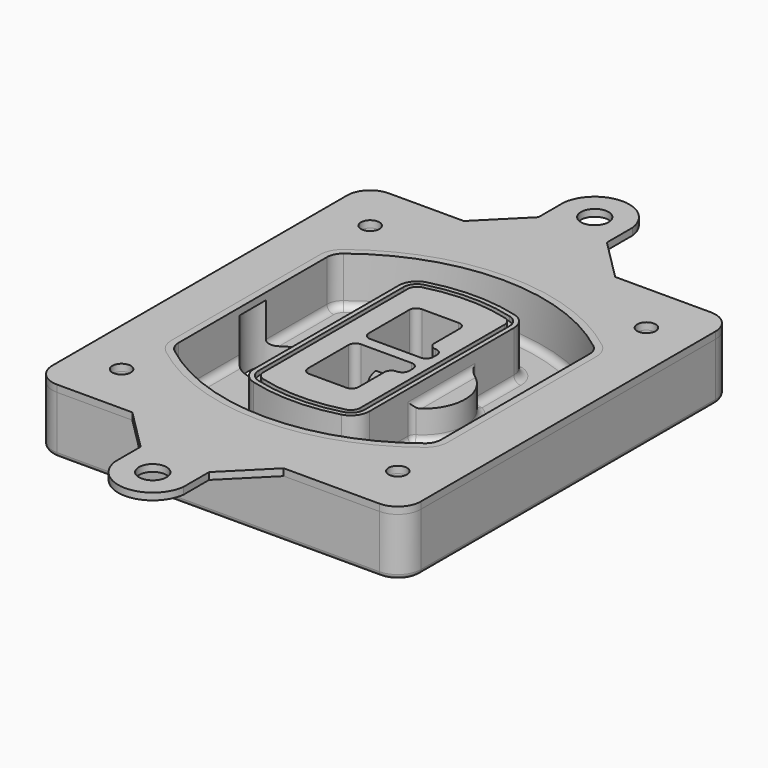
from build123d import *

# Parameters (mm, degrees)
F0_R      = 4
F1_DEPTH  = 25
F2_DEPTH  = 3
F3_DEPTH  = 18
F5_DEPTH  = 21
F6_DEPTH  = 2
F8_DEPTH  = 20
F9_DEPTH  = 16
F10_DEPTH = 25
F7_R      = 6
F7_R_2    = 4
F11_DEPTH = 6
F13_DEPTH = 9
F14_R     = 3
F15_R     = 2
F16_R     = 6
F16_R_2   = 4
F17_DEPTH = 3


with BuildPart() as f1:
    # F0 (on Top) → F1 (new body)
    with BuildSketch(Plane.XY):
        with BuildLine():
            ThreePointArc((-80, -80), (-77.0710678119, -87.0710678119), (-70, -90))
            Line((-70, -90), (70, -90))
            ThreePointArc((70, -90), (77.0710678119, -87.0710678119), (80, -80))
            Line((80, -80), (80, 80))
            ThreePointArc((80, 80), (77.0710678119, 87.0710678119), (70, 90))
            Line((70, 90), (-70, 90))
            ThreePointArc((-70, 90), (-77.0710678119, 87.0710678119), (-80, 80))
            Line((-80, 80), (-80, -80))
        make_face()
        with Locations((-60, -67.5)):
            Circle(F0_R, mode=Mode.SUBTRACT)
        with Locations((60, -67.5)):
            Circle(F0_R, mode=Mode.SUBTRACT)
        with Locations((-60, 67.5)):
            Circle(F0_R, mode=Mode.SUBTRACT)
        with BuildLine():
            ThreePointArc((-64, 40.2934422872), (-62.5820384798, 46.4328484224), (-58.6153846154, 51.3286200352))
            ThreePointArc((-58.6153846154, 51.3286200352), (0, 71.5), (58.6153846154, 51.3286200352))
            ThreePointArc((58.6153846154, 51.3286200352), (62.5820384798, 46.4328484224), (64, 40.2934422872))
            Line((64, 40.2934422872), (64, -40.2934422872))
            ThreePointArc((64, -40.2934422872), (62.5820384798, -46.4328484224), (58.6153846154, -51.3286200352))
            ThreePointArc((58.6153846154, -51.3286200352), (0, -71.5), (-58.6153846154, -51.3286200352))
            ThreePointArc((-58.6153846154, -51.3286200352), (-62.5820384798, -46.4328484224), (-64, -40.2934422872))
            Line((-64, -40.2934422872), (-64, 40.2934422872))
        make_face(mode=Mode.SUBTRACT)
        with Locations((60, 67.5)):
            Circle(F0_R, mode=Mode.SUBTRACT)
        with BuildLine():
            ThreePointArc((58.6153846154, 51.3286200352), (0, 71.5), (-58.6153846154, 51.3286200352))
            ThreePointArc((-58.6153846154, 51.3286200352), (-62.5820384798, 46.4328484224), (-64, 40.2934422872))
            Line((-64, 40.2934422872), (-64, -40.2934422872))
            ThreePointArc((-64, -40.2934422872), (-62.5820384798, -46.4328484224), (-58.6153846154, -51.3286200352))
            ThreePointArc((-58.6153846154, -51.3286200352), (0, -71.5), (58.6153846154, -51.3286200352))
            ThreePointArc((58.6153846154, -51.3286200352), (62.5820384798, -46.4328484224), (64, -40.2934422872))
            Line((64, -40.2934422872), (64, 40.2934422872))
            ThreePointArc((64, 40.2934422872), (62.5820384798, 46.4328484224), (58.6153846154, 51.3286200352))
        make_face()
        with BuildLine():
            Line((-60, -40.2934422872), (-60, 40.2934422872))
            ThreePointArc((-60, 40.2934422872), (-58.9871703427, 44.6787323838), (-56.1538461538, 48.1757121072))
            ThreePointArc((-56.1538461538, 48.1757121072), (0, 67.5), (56.1538461538, 48.1757121072))
            ThreePointArc((56.1538461538, 48.1757121072), (58.9871703427, 44.6787323838), (60, 40.2934422872))
            Line((60, 40.2934422872), (60, -40.2934422872))
            ThreePointArc((60, -40.2934422872), (58.9871703427, -44.6787323838), (56.1538461538, -48.1757121072))
            ThreePointArc((56.1538461538, -48.1757121072), (0, -67.5), (-56.1538461538, -48.1757121072))
            ThreePointArc((-56.1538461538, -48.1757121072), (-58.9871703427, -44.6787323838), (-60, -40.2934422872))
        make_face(mode=Mode.SUBTRACT)
        with BuildLine():
            ThreePointArc((-56.1538461538, 48.1757121072), (-58.9871703427, 44.6787323838), (-60, 40.2934422872))
            Line((-60, 40.2934422872), (-60, -40.2934422872))
            ThreePointArc((-60, -40.2934422872), (-58.9871703427, -44.6787323838), (-56.1538461538, -48.1757121072))
            ThreePointArc((-56.1538461538, -48.1757121072), (0, -67.5), (56.1538461538, -48.1757121072))
            ThreePointArc((56.1538461538, -48.1757121072), (58.9871703427, -44.6787323838), (60, -40.2934422872))
            Line((60, -40.2934422872), (60, 40.2934422872))
            ThreePointArc((60, 40.2934422872), (58.9871703427, 44.6787323838), (56.1538461538, 48.1757121072))
            ThreePointArc((56.1538461538, 48.1757121072), (0, 67.5), (-56.1538461538, 48.1757121072))
        make_face()
        with BuildLine():
            ThreePointArc((54.3076923077, 45.8110311612), (56.2910192399, 43.3631453548), (57, 40.2934422872))
            Line((57, 40.2934422872), (57, -40.2934422872))
            ThreePointArc((57, -40.2934422872), (56.2910192399, -43.3631453548), (54.3076923077, -45.8110311612))
            ThreePointArc((54.3076923077, -45.8110311612), (0, -64.5), (-54.3076923077, -45.8110311612))
            ThreePointArc((-54.3076923077, -45.8110311612), (-56.2910192399, -43.3631453548), (-57, -40.2934422872))
            Line((-57, -40.2934422872), (-57, 40.2934422872))
            ThreePointArc((-57, 40.2934422872), (-56.2910192399, 43.3631453548), (-54.3076923077, 45.8110311612))
            ThreePointArc((-54.3076923077, 45.8110311612), (0, 64.5), (54.3076923077, 45.8110311612))
        make_face(mode=Mode.SUBTRACT)
        with BuildLine():
            Line((57, -40.2934422872), (57, 40.2934422872))
            ThreePointArc((57, 40.2934422872), (56.2910192399, 43.3631453548), (54.3076923077, 45.8110311612))
            ThreePointArc((54.3076923077, 45.8110311612), (0, 64.5), (-54.3076923077, 45.8110311612))
            ThreePointArc((-54.3076923077, 45.8110311612), (-56.2910192399, 43.3631453548), (-57, 40.2934422872))
            Line((-57, 40.2934422872), (-57, -40.2934422872))
            ThreePointArc((-57, -40.2934422872), (-56.2910192399, -43.3631453548), (-54.3076923077, -45.8110311612))
            ThreePointArc((-54.3076923077, -45.8110311612), (0, -64.5), (54.3076923077, -45.8110311612))
            ThreePointArc((54.3076923077, -45.8110311612), (56.2910192399, -43.3631453548), (57, -40.2934422872))
        make_face()
    extrude(amount=-F1_DEPTH)

    # F0 (on Top) → F2 (join)
    with BuildSketch(Plane.XY):
        with BuildLine():
            ThreePointArc((-56.1538461538, 48.1757121072), (-58.9871703427, 44.6787323838), (-60, 40.2934422872))
            Line((-60, 40.2934422872), (-60, -40.2934422872))
            ThreePointArc((-60, -40.2934422872), (-58.9871703427, -44.6787323838), (-56.1538461538, -48.1757121072))
            ThreePointArc((-56.1538461538, -48.1757121072), (0, -67.5), (56.1538461538, -48.1757121072))
            ThreePointArc((56.1538461538, -48.1757121072), (58.9871703427, -44.6787323838), (60, -40.2934422872))
            Line((60, -40.2934422872), (60, 40.2934422872))
            ThreePointArc((60, 40.2934422872), (58.9871703427, 44.6787323838), (56.1538461538, 48.1757121072))
            ThreePointArc((56.1538461538, 48.1757121072), (0, 67.5), (-56.1538461538, 48.1757121072))
        make_face()
        with BuildLine():
            ThreePointArc((54.3076923077, 45.8110311612), (56.2910192399, 43.3631453548), (57, 40.2934422872))
            Line((57, 40.2934422872), (57, -40.2934422872))
            ThreePointArc((57, -40.2934422872), (56.2910192399, -43.3631453548), (54.3076923077, -45.8110311612))
            ThreePointArc((54.3076923077, -45.8110311612), (0, -64.5), (-54.3076923077, -45.8110311612))
            ThreePointArc((-54.3076923077, -45.8110311612), (-56.2910192399, -43.3631453548), (-57, -40.2934422872))
            Line((-57, -40.2934422872), (-57, 40.2934422872))
            ThreePointArc((-57, 40.2934422872), (-56.2910192399, 43.3631453548), (-54.3076923077, 45.8110311612))
            ThreePointArc((-54.3076923077, 45.8110311612), (0, 64.5), (54.3076923077, 45.8110311612))
        make_face(mode=Mode.SUBTRACT)
    extrude(amount=F2_DEPTH)

    # F0 (on Top) → F3 (cut)
    with BuildSketch(Plane.XY):
        with BuildLine():
            Line((57, -40.2934422872), (57, 40.2934422872))
            ThreePointArc((57, 40.2934422872), (56.2910192399, 43.3631453548), (54.3076923077, 45.8110311612))
            ThreePointArc((54.3076923077, 45.8110311612), (0, 64.5), (-54.3076923077, 45.8110311612))
            ThreePointArc((-54.3076923077, 45.8110311612), (-56.2910192399, 43.3631453548), (-57, 40.2934422872))
            Line((-57, 40.2934422872), (-57, -40.2934422872))
            ThreePointArc((-57, -40.2934422872), (-56.2910192399, -43.3631453548), (-54.3076923077, -45.8110311612))
            ThreePointArc((-54.3076923077, -45.8110311612), (0, -64.5), (54.3076923077, -45.8110311612))
            ThreePointArc((54.3076923077, -45.8110311612), (56.2910192399, -43.3631453548), (57, -40.2934422872))
        make_face()
    extrude(amount=-F3_DEPTH, mode=Mode.SUBTRACT)

    # F4 (on face) → F5 (join, through all)
    with BuildSketch(Plane.XY.offset(3)):
        with BuildLine():
            ThreePointArc((-25, -39.2465276821), (-23.3511545998, -44.1109737193), (-19.0842911877, -46.9702398883))
            ThreePointArc((-19.0842911877, -46.9702398883), (0, -49.5), (19.0842911877, -46.9702398883))
            ThreePointArc((19.0842911877, -46.9702398883), (23.3511545998, -44.1109737193), (25, -39.2465276821))
            Line((25, -39.2465276821), (25, 39.2465276821))
            ThreePointArc((25, 39.2465276821), (23.3511545998, 44.1109737193), (19.0842911877, 46.9702398883))
            ThreePointArc((19.0842911877, 46.9702398883), (0, 49.5), (-19.0842911877, 46.9702398883))
            ThreePointArc((-19.0842911877, 46.9702398883), (-23.3511545998, 44.1109737193), (-25, 39.2465276821))
            Line((-25, 39.2465276821), (-25, -39.2465276821))
        make_face()
        with BuildLine():
            ThreePointArc((18.5632183908, 45.0393118368), (21.7633659499, 42.89486221), (23, 39.2465276821))
            Line((23, 39.2465276821), (23, -39.2465276821))
            ThreePointArc((23, -39.2465276821), (21.7633659499, -42.89486221), (18.5632183908, -45.0393118368))
            ThreePointArc((18.5632183908, -45.0393118368), (0, -47.5), (-18.5632183908, -45.0393118368))
            ThreePointArc((-18.5632183908, -45.0393118368), (-21.7633659499, -42.89486221), (-23, -39.2465276821))
            Line((-23, -39.2465276821), (-23, 39.2465276821))
            ThreePointArc((-23, 39.2465276821), (-21.7633659499, 42.89486221), (-18.5632183908, 45.0393118368))
            ThreePointArc((-18.5632183908, 45.0393118368), (0, 47.5), (18.5632183908, 45.0393118368))
        make_face(mode=Mode.SUBTRACT)
        with BuildLine():
            Line((23, -39.2465276821), (23, 39.2465276821))
            ThreePointArc((23, 39.2465276821), (21.7633659499, 42.89486221), (18.5632183908, 45.0393118368))
            ThreePointArc((18.5632183908, 45.0393118368), (0, 47.5), (-18.5632183908, 45.0393118368))
            ThreePointArc((-18.5632183908, 45.0393118368), (-21.7633659499, 42.89486221), (-23, 39.2465276821))
            Line((-23, 39.2465276821), (-23, -39.2465276821))
            ThreePointArc((-23, -39.2465276821), (-21.7633659499, -42.89486221), (-18.5632183908, -45.0393118368))
            ThreePointArc((-18.5632183908, -45.0393118368), (0, -47.5), (18.5632183908, -45.0393118368))
            ThreePointArc((18.5632183908, -45.0393118368), (21.7633659499, -42.89486221), (23, -39.2465276821))
        make_face()
        with BuildLine():
            ThreePointArc((18.0421455939, 43.1083837852), (20.1755772999, 41.6787507007), (21, 39.2465276821))
            Line((21, 39.2465276821), (21, -39.2465276821))
            ThreePointArc((21, -39.2465276821), (20.1755772999, -41.6787507007), (18.0421455939, -43.1083837852))
            ThreePointArc((18.0421455939, -43.1083837852), (0, -45.5), (-18.0421455939, -43.1083837852))
            ThreePointArc((-18.0421455939, -43.1083837852), (-20.1755772999, -41.6787507007), (-21, -39.2465276821))
            Line((-21, -39.2465276821), (-21, 39.2465276821))
            ThreePointArc((-21, 39.2465276821), (-20.1755772999, 41.6787507007), (-18.0421455939, 43.1083837852))
            ThreePointArc((-18.0421455939, 43.1083837852), (0, 45.5), (18.0421455939, 43.1083837852))
        make_face(mode=Mode.SUBTRACT)
        with BuildLine():
            Line((21, -39.2465276821), (21, 39.2465276821))
            ThreePointArc((21, 39.2465276821), (20.1755772999, 41.6787507007), (18.0421455939, 43.1083837852))
            ThreePointArc((18.0421455939, 43.1083837852), (0, 45.5), (-18.0421455939, 43.1083837852))
            ThreePointArc((-18.0421455939, 43.1083837852), (-20.1755772999, 41.6787507007), (-21, 39.2465276821))
            Line((-21, 39.2465276821), (-21, -39.2465276821))
            ThreePointArc((-21, -39.2465276821), (-20.1755772999, -41.6787507007), (-18.0421455939, -43.1083837852))
            ThreePointArc((-18.0421455939, -43.1083837852), (0, -45.5), (18.0421455939, -43.1083837852))
            ThreePointArc((18.0421455939, -43.1083837852), (20.1755772999, -41.6787507007), (21, -39.2465276821))
        make_face()
        with BuildLine():
            Line((-8, -2.5), (14, -2.5))
            ThreePointArc((14, -2.5), (16.1213203436, -3.3786796564), (17, -5.5))
            Line((17, -5.5), (17, -7.5))
            ThreePointArc((17, -7.5), (16.1213203436, -9.6213203436), (14, -10.5))
            ThreePointArc((14, -10.5), (11.8786796564, -11.3786796564), (11, -13.5))
            Line((11, -13.5), (11, -27.5))
            ThreePointArc((11, -27.5), (10.1213203436, -29.6213203436), (8, -30.5))
            Line((8, -30.5), (-8, -30.5))
            ThreePointArc((-8, -30.5), (-10.1213203436, -29.6213203436), (-11, -27.5))
            Line((-11, -27.5), (-11, -5.5))
            ThreePointArc((-11, -5.5), (-10.1213203436, -3.3786796564), (-8, -2.5))
        make_face(mode=Mode.SUBTRACT)
        with BuildLine():
            ThreePointArc((-8, 2.5), (-10.1213203436, 3.3786796564), (-11, 5.5))
            Line((-11, 5.5), (-11, 27.5))
            ThreePointArc((-11, 27.5), (-10.1213203436, 29.6213203436), (-8, 30.5))
            Line((-8, 30.5), (8, 30.5))
            ThreePointArc((8, 30.5), (10.1213203436, 29.6213203436), (11, 27.5))
            Line((11, 27.5), (11, 13.5))
            ThreePointArc((11, 13.5), (11.8786796564, 11.3786796564), (14, 10.5))
            ThreePointArc((14, 10.5), (16.1213203436, 9.6213203436), (17, 7.5))
            Line((17, 7.5), (17, 5.5))
            ThreePointArc((17, 5.5), (16.1213203436, 3.3786796564), (14, 2.5))
            Line((14, 2.5), (-8, 2.5))
        make_face(mode=Mode.SUBTRACT)
    extrude(amount=-F5_DEPTH)

    # F4 (on face) → F6 (cut)
    with BuildSketch(Plane.XY.offset(3)):
        with BuildLine():
            Line((23, -39.2465276821), (23, 39.2465276821))
            ThreePointArc((23, 39.2465276821), (21.7633659499, 42.89486221), (18.5632183908, 45.0393118368))
            ThreePointArc((18.5632183908, 45.0393118368), (0, 47.5), (-18.5632183908, 45.0393118368))
            ThreePointArc((-18.5632183908, 45.0393118368), (-21.7633659499, 42.89486221), (-23, 39.2465276821))
            Line((-23, 39.2465276821), (-23, -39.2465276821))
            ThreePointArc((-23, -39.2465276821), (-21.7633659499, -42.89486221), (-18.5632183908, -45.0393118368))
            ThreePointArc((-18.5632183908, -45.0393118368), (0, -47.5), (18.5632183908, -45.0393118368))
            ThreePointArc((18.5632183908, -45.0393118368), (21.7633659499, -42.89486221), (23, -39.2465276821))
        make_face()
        with BuildLine():
            ThreePointArc((18.0421455939, 43.1083837852), (20.1755772999, 41.6787507007), (21, 39.2465276821))
            Line((21, 39.2465276821), (21, -39.2465276821))
            ThreePointArc((21, -39.2465276821), (20.1755772999, -41.6787507007), (18.0421455939, -43.1083837852))
            ThreePointArc((18.0421455939, -43.1083837852), (0, -45.5), (-18.0421455939, -43.1083837852))
            ThreePointArc((-18.0421455939, -43.1083837852), (-20.1755772999, -41.6787507007), (-21, -39.2465276821))
            Line((-21, -39.2465276821), (-21, 39.2465276821))
            ThreePointArc((-21, 39.2465276821), (-20.1755772999, 41.6787507007), (-18.0421455939, 43.1083837852))
            ThreePointArc((-18.0421455939, 43.1083837852), (0, 45.5), (18.0421455939, 43.1083837852))
        make_face(mode=Mode.SUBTRACT)
    extrude(amount=-F6_DEPTH, mode=Mode.SUBTRACT)

    # F7 (on face) → F8 (join)
    with BuildSketch(Plane(origin=(0, 0, -25), x_dir=(1, 0, 0), z_dir=(0, 0, -1))):
        with BuildLine():
            ThreePointArc((3.28842436, 0), (16.7567035675, 13.4682792075), (30.224982775, 0))
            Line((30.224982775, 0), (35.224982775, 0))
            ThreePointArc((35.224982775, 0), (16.7567035675, 18.4682792075), (-1.71157564, 0))
            Line((-1.71157564, 0), (3.28842436, 0))
        make_face()
        with BuildLine():
            Line((3.28842436, 0), (30.224982775, 0))
            ThreePointArc((30.224982775, 0), (16.7567035675, 13.4682792075), (3.28842436, 0))
        make_face()
        with BuildLine():
            ThreePointArc((3.28842436, 0), (16.7567035675, -13.4682792075), (30.224982775, 0))
            Line((30.224982775, 0), (3.28842436, 0))
        make_face()
        with BuildLine():
            Line((35.224982775, 0), (30.224982775, 0))
            ThreePointArc((30.224982775, 0), (16.7567035675, -13.4682792075), (3.28842436, 0))
            Line((3.28842436, 0), (-1.71157564, 0))
            ThreePointArc((-1.71157564, 0), (16.7567035675, -18.4682792075), (35.224982775, 0))
        make_face()
    extrude(amount=-F8_DEPTH)

    # F7 (on face) → F9 (cut)
    with BuildSketch(Plane(origin=(0, 0, -25), x_dir=(1, 0, 0), z_dir=(0, 0, -1))):
        with BuildLine():
            Line((3.28842436, 0), (30.224982775, 0))
            ThreePointArc((30.224982775, 0), (16.7567035675, 13.4682792075), (3.28842436, 0))
        make_face()
        with BuildLine():
            ThreePointArc((3.28842436, 0), (16.7567035675, -13.4682792075), (30.224982775, 0))
            Line((30.224982775, 0), (3.28842436, 0))
        make_face()
    extrude(amount=-F9_DEPTH, mode=Mode.SUBTRACT)

    # F7 (on face) → F10 (cut)
    with BuildSketch(Plane(origin=(0, 0, -25), x_dir=(1, 0, 0), z_dir=(0, 0, -1))):
        with BuildLine():
            Line((-59.0318229325, 0), (-32.0952645175, 0))
            ThreePointArc((-32.0952645175, 0), (-45.563543725, 13.4682792075), (-59.0318229325, 0))
        make_face()
        with BuildLine():
            ThreePointArc((-59.0318229325, 0), (-45.563543725, -13.4682792075), (-32.0952645175, 0))
            Line((-32.0952645175, 0), (-59.0318229325, 0))
        make_face()
    extrude(amount=-F10_DEPTH, mode=Mode.SUBTRACT)

    # F7 (on face) → F11 (cut)
    with BuildSketch(Plane(origin=(0, 0, -25), x_dir=(1, 0, 0), z_dir=(0, 0, -1))):
        with Locations((60, -67.5)):
            Circle(F7_R)
        with Locations((60, -67.5)):
            Circle(F7_R_2, mode=Mode.SUBTRACT)
        with Locations((60, -67.5)):
            Circle(F7_R)
        with Locations((60, -67.5)):
            Circle(F7_R_2, mode=Mode.SUBTRACT)
        with Locations((-60, -67.5)):
            Circle(F7_R)
        with Locations((-60, -67.5)):
            Circle(F7_R_2, mode=Mode.SUBTRACT)
        with Locations((-60, -67.5)):
            Circle(F7_R)
        with Locations((-60, -67.5)):
            Circle(F7_R_2, mode=Mode.SUBTRACT)
        with Locations((-60, 67.5)):
            Circle(F7_R)
        with Locations((-60, 67.5)):
            Circle(F7_R_2, mode=Mode.SUBTRACT)
        with Locations((-60, 67.5)):
            Circle(F7_R)
        with Locations((-60, 67.5)):
            Circle(F7_R_2, mode=Mode.SUBTRACT)
        with Locations((60, 67.5)):
            Circle(F7_R)
        with Locations((60, 67.5)):
            Circle(F7_R_2, mode=Mode.SUBTRACT)
        with Locations((60, 67.5)):
            Circle(F7_R)
        with Locations((60, 67.5)):
            Circle(F7_R_2, mode=Mode.SUBTRACT)
    extrude(amount=-F11_DEPTH, mode=Mode.SUBTRACT)

    # F12 (on face) → F13 (cut, through all)
    with BuildSketch(Plane(origin=(0, 0, -9), x_dir=(1, 0, 0), z_dir=(0, 0, -1))):
        with BuildLine():
            Line((11, 13.5), (11, 17.5481537753))
            ThreePointArc((11, 17.5481537753), (2.5696536419, 11.8239143813), (-1.5415842455, 2.5))
            Line((-1.5415842455, 2.5), (3.5224848595, 2.5))
            ThreePointArc((3.5224848595, 2.5), (6.1857188154, 8.3455872281), (11.2536447004, 12.2927168648))
            ThreePointArc((11.2536447004, 12.2927168648), (11.0640958889, 12.8831798879), (11, 13.5))
        make_face()
        with BuildLine():
            ThreePointArc((11.2536447004, -12.2927168648), (6.1857188154, -8.3455872281), (3.5224848595, -2.5))
            Line((3.5224848595, -2.5), (-1.5415842455, -2.5))
            ThreePointArc((-1.5415842455, -2.5), (2.5696536419, -11.8239143813), (11, -17.5481537753))
            Line((11, -17.5481537753), (11, -13.5))
            ThreePointArc((11, -13.5), (11.0640958889, -12.8831798879), (11.2536447004, -12.2927168648))
        make_face()
        with BuildLine():
            ThreePointArc((11.2536447004, 12.2927168648), (6.1857188154, 8.3455872281), (3.5224848595, 2.5))
            Line((3.5224848595, 2.5), (14, 2.5))
            ThreePointArc((14, 2.5), (16.1213203436, 3.3786796564), (17, 5.5))
            Line((17, 5.5), (17, 7.5))
            ThreePointArc((17, 7.5), (16.1213203436, 9.6213203436), (14, 10.5))
            ThreePointArc((14, 10.5), (12.3601599782, 10.9878446101), (11.2536447004, 12.2927168648))
        make_face()
        with BuildLine():
            Line((14, -2.5), (3.5224848595, -2.5))
            ThreePointArc((3.5224848595, -2.5), (6.1857188154, -8.3455872281), (11.2536447004, -12.2927168648))
            ThreePointArc((11.2536447004, -12.2927168648), (12.3601599782, -10.9878446101), (14, -10.5))
            ThreePointArc((14, -10.5), (16.1213203436, -9.6213203436), (17, -7.5))
            Line((17, -7.5), (17, -5.5))
            ThreePointArc((17, -5.5), (16.1213203436, -3.3786796564), (14, -2.5))
        make_face()
    extrude(amount=F13_DEPTH, mode=Mode.SUBTRACT)

    # F14
    f14_edges = [f1.edges().sort_by_distance(p)[0] for p in [
        (-57, -23.703476, -18),
        (-57, 23.703476, -18),
        (25, 0, -5),
        (25, 16.526506, -11.5),
        (25, -16.526506, -11.5),
        (25, -27.886517, -18),
        (35.224983, 0, -18),
    ]]
    fillet(f14_edges, radius=F14_R)

    # F15
    f15_edges = [f1.edges().sort_by_distance(p)[0] for p in [
        (0, -90, -25),
    ]]
    fillet(f15_edges, radius=F15_R)


with BuildPart() as f17:
    # F16 (on face) → F17 (new body, through all)
    with BuildSketch(Plane.XY):
        with BuildLine():
            Line((28.4218459979, -90), (-37.3193100095, -90))
            Line((-37.3193100095, -90), (-19.3193100095, -108))
            Line((-19.3193100095, -108), (-19.3193100095, -121.9661917088))
            ThreePointArc((-19.3193100095, -121.9661917088), (-4.4487320058, -135), (10.4218459979, -121.9661917088))
            Line((10.4218459979, -121.9661917088), (10.4218459979, -108))
            Line((10.4218459979, -108), (28.4218459979, -90))
        make_face()
        with Locations((-4.4487320058, -120)):
            Circle(F16_R, mode=Mode.SUBTRACT)
        with BuildLine():
            Line((-19.3193100095, 108), (-37.3193100095, 90))
            Line((-37.3193100095, 90), (28.4218459979, 90))
            Line((28.4218459979, 90), (10.4218459979, 108))
            Line((10.4218459979, 108), (10.4218459979, 121.9661917088))
            ThreePointArc((10.4218459979, 121.9661917088), (-4.4487320058, 135), (-19.3193100095, 121.9661917088))
            Line((-19.3193100095, 121.9661917088), (-19.3193100095, 108))
        make_face()
        with Locations((-4.4487320058, 120)):
            Circle(F16_R, mode=Mode.SUBTRACT)
        with BuildLine():
            Line((28.4218459979, 90), (-37.3193100095, 90))
            Line((-37.3193100095, 90), (-70, 90))
            ThreePointArc((-70, 90), (-77.0710678119, 87.0710678119), (-80, 80))
            Line((-80, 80), (-80, -80))
            ThreePointArc((-80, -80), (-77.0710678119, -87.0710678119), (-70, -90))
            Line((-70, -90), (-37.3193100095, -90))
            Line((-37.3193100095, -90), (28.4218459979, -90))
            Line((28.4218459979, -90), (70, -90))
            ThreePointArc((70, -90), (77.0710678119, -87.0710678119), (80, -80))
            Line((80, -80), (80, 80))
            ThreePointArc((80, 80), (77.0710678119, 87.0710678119), (70, 90))
            Line((70, 90), (28.4218459979, 90))
        make_face()
        with Locations((-60, -67.5)):
            Circle(F16_R_2, mode=Mode.SUBTRACT)
        with Locations((60, -67.5)):
            Circle(F16_R_2, mode=Mode.SUBTRACT)
        with Locations((-60, 67.5)):
            Circle(F16_R_2, mode=Mode.SUBTRACT)
        with BuildLine():
            ThreePointArc((-60, 40.2934422872), (-58.9871703427, 44.6787323838), (-56.1538461538, 48.1757121072))
            ThreePointArc((-56.1538461538, 48.1757121072), (0, 67.5), (56.1538461538, 48.1757121072))
            ThreePointArc((56.1538461538, 48.1757121072), (58.9871703427, 44.6787323838), (60, 40.2934422872))
            Line((60, 40.2934422872), (60, -40.2934422872))
            ThreePointArc((60, -40.2934422872), (58.9871703427, -44.6787323838), (56.1538461538, -48.1757121072))
            ThreePointArc((56.1538461538, -48.1757121072), (0, -67.5), (-56.1538461538, -48.1757121072))
            ThreePointArc((-56.1538461538, -48.1757121072), (-58.9871703427, -44.6787323838), (-60, -40.2934422872))
            Line((-60, -40.2934422872), (-60, 40.2934422872))
        make_face(mode=Mode.SUBTRACT)
        with Locations((60, 67.5)):
            Circle(F16_R_2, mode=Mode.SUBTRACT)
    extrude(amount=F17_DEPTH)


solid = Compound([f1.part, f17.part])
